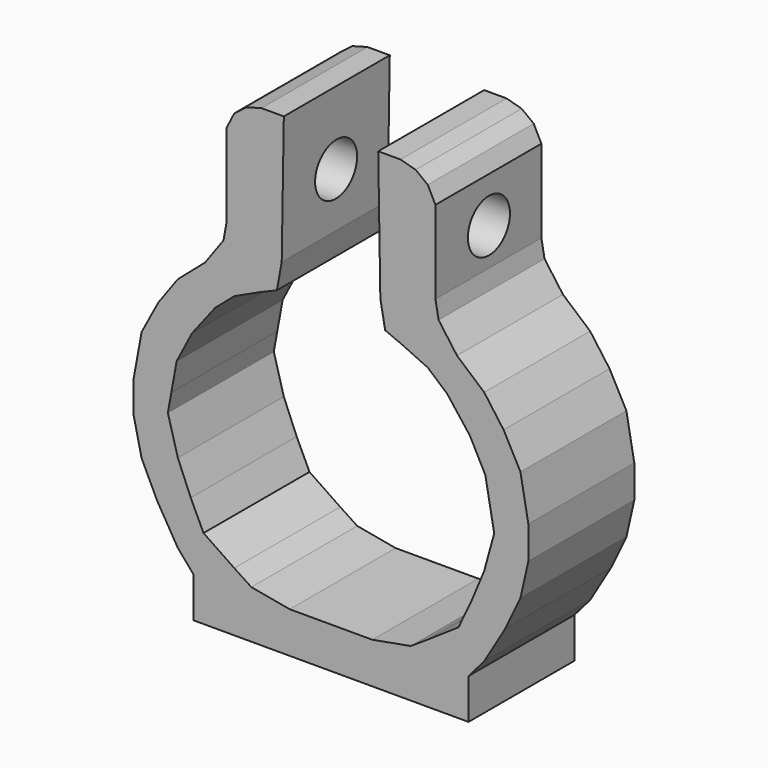
from build123d import *

# Parameters (mm, degrees)
F1_DEPTH = 7.5
F2_R     = 2.974485
F3_DEPTH = 33.760661
F4_R     = 2.974485
F5_DEPTH = 10.938791


with BuildPart() as f1:
    # F0 (on Front) → F1 (new body, symmetric)
    with BuildSketch(Plane.XZ):
        Polygon((5.826252, 12.139047), (6.064818, 26.734496), (3.536387, 26.734496), (1.821829, 26.267877), (0.454524, 25.215268), (-0.413607, 23.500709), (-0.413607, 14.103194), (-0.771711, 12.139047), (-2.855225, 9.263365), (-5.937089, 6.604715), (-8.137005, 3.577773), (-10.042827, 0), (-10.937791, -4.908744), (-10.937791, -8.619478), (-10.042827, -12.583584), (-8.289473, -16.242759), (-5.937089, -20.206865), (-4.16116, -22.265492), (-4.16116, -26.83912), (11.410935, -26.83912), (11.410935, -22.188919), (6.728393, -22.188919), (2.381469, -21.396385), (0.454524, -20.130632), (-3.029408, -17.767416), (-4.477831, -14.718102), (-5.937089, -11.211392), (-7.069747, -7.09482), (-6.673481, -4.921359), (-6.069345, -1.607767), (-4.325366, 1.748186), (-1.733449, 5.10243), (0.454524, 6.989942), (3.297916, 8.304209), (5.279969, 9.14277), align=None)
        Polygon((16.093477, -22.188919), (11.410935, -22.188919), (11.410935, -26.83912), (26.98303, -26.83912), (26.98303, -22.265492), (28.758958, -20.206865), (31.111343, -16.242759), (32.864696, -12.583584), (33.759661, -8.619478), (33.759661, -4.908744), (32.864696, 0), (30.958875, 3.577773), (28.758958, 6.604715), (25.677094, 9.263365), (23.593581, 12.139047), (23.235477, 14.103194), (23.235477, 23.500709), (22.367346, 25.215268), (21.00004, 26.267877), (19.285482, 26.734496), (16.757051, 26.734496), (16.995617, 12.139047), (17.5419, 9.14277), (19.523954, 8.304209), (22.367346, 6.989942), (24.555319, 5.10243), (27.147235, 1.748186), (28.891215, -1.607767), (29.495351, -4.921359), (29.891617, -7.09482), (28.758958, -11.211392), (27.2997, -14.718102), (25.851278, -17.767416), (22.367346, -20.130632), (20.440401, -21.396385), align=None)
    extrude(amount=F1_DEPTH, both=True)

    # F2 (on Right) → F3 (cut, through all)
    with BuildSketch(Plane.YZ):
        with Locations((0.075872, 18.351913)):
            Circle(F2_R)
    extrude(amount=F3_DEPTH, mode=Mode.SUBTRACT)

    # F4 (on face) → F5 (cut, through all)
    with BuildSketch(Plane.YZ):
        with Locations((0.075872, 18.351913)):
            Circle(F4_R)
    extrude(amount=-F5_DEPTH, mode=Mode.SUBTRACT)


solid = f1.part
